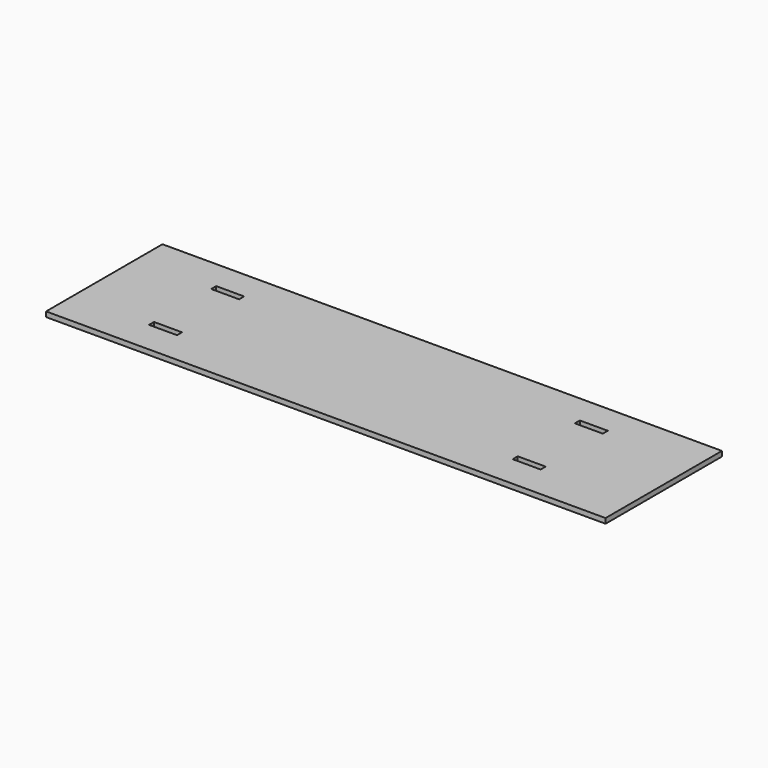
from build123d import *

# Parameters (mm, degrees)
F0_W     = 254
F0_H     = 66.04
F0_W_2   = 12.7
F0_H_2   = 2.8448
F1_DEPTH = 1.143


with BuildPart() as f1:
    # F0 (on Top) → F1 (new body, symmetric)
    with BuildSketch(Plane.XY):
        Rectangle(F0_W, F0_H)
        with Locations((-85.69452, -16.8656)):
            Rectangle(F0_W_2, F0_H_2, mode=Mode.SUBTRACT)
        with Locations((79.40548, -16.8656)):
            Rectangle(F0_W_2, F0_H_2, mode=Mode.SUBTRACT)
        with Locations((-85.69452, 18.3896)):
            Rectangle(F0_W_2, F0_H_2, mode=Mode.SUBTRACT)
        with Locations((79.40548, 18.3896)):
            Rectangle(F0_W_2, F0_H_2, mode=Mode.SUBTRACT)
    extrude(amount=F1_DEPTH, both=True)


solid = f1.part
